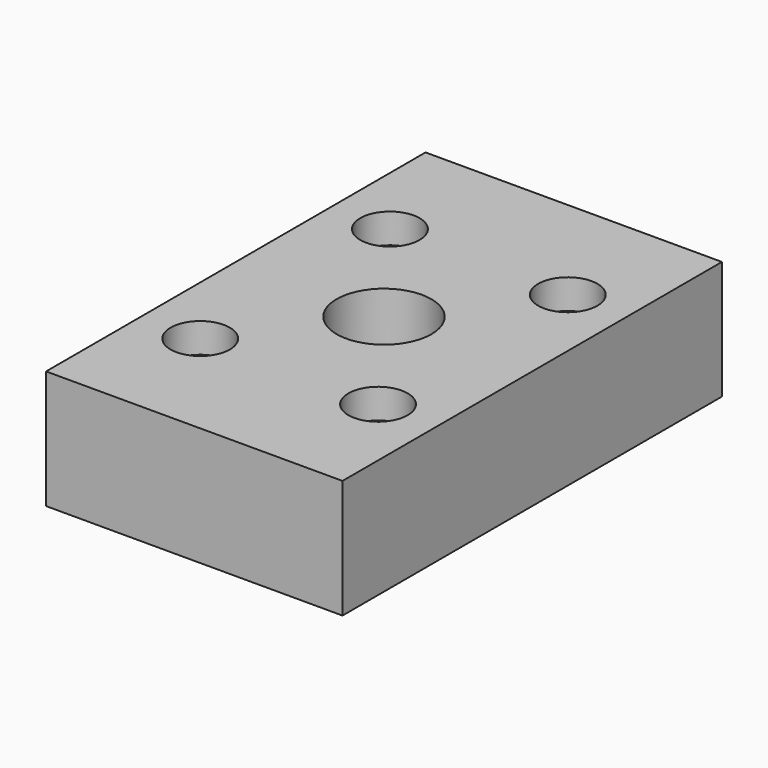
from build123d import *

# Parameters (mm, degrees)
F0_W     = 50
F0_H     = 80
F0_R     = 5
F0_R_2   = 8
F0_R_3   = 2.5
F1_DEPTH = 20
F2_START = 15
F2_DEPTH = 5


with BuildPart() as f1:
    # F0 (on Top) → F1 (new body)
    with BuildSketch(Plane.XY):
        Rectangle(F0_W, F0_H)
        with Locations((-15, -20)):
            Circle(F0_R, mode=Mode.SUBTRACT)
        with Locations((15, -20)):
            Circle(F0_R, mode=Mode.SUBTRACT)
        with Locations((-15, 20)):
            Circle(F0_R, mode=Mode.SUBTRACT)
        Circle(F0_R_2, mode=Mode.SUBTRACT)
        with Locations((15, 20)):
            Circle(F0_R, mode=Mode.SUBTRACT)
        with Locations((-15, 20)):
            Circle(F0_R)
        with Locations((-15, 20)):
            Circle(F0_R_3, mode=Mode.SUBTRACT)
        with Locations((15, 20)):
            Circle(F0_R)
        with Locations((15, 20)):
            Circle(F0_R_3, mode=Mode.SUBTRACT)
        with Locations((15, -20)):
            Circle(F0_R)
        with Locations((15, -20)):
            Circle(F0_R_3, mode=Mode.SUBTRACT)
        with Locations((-15, -20)):
            Circle(F0_R)
        with Locations((-15, -20)):
            Circle(F0_R_3, mode=Mode.SUBTRACT)
    extrude(amount=F1_DEPTH)

    # F0 (on Top) → F2 (cut)
    with BuildSketch(Plane.XY.offset(F2_START)):
        with Locations((-15, -20)):
            Circle(F0_R)
        with Locations((-15, -20)):
            Circle(F0_R_3, mode=Mode.SUBTRACT)
        with Locations((15, -20)):
            Circle(F0_R)
        with Locations((15, -20)):
            Circle(F0_R_3, mode=Mode.SUBTRACT)
        with Locations((-15, 20)):
            Circle(F0_R)
        with Locations((-15, 20)):
            Circle(F0_R_3, mode=Mode.SUBTRACT)
        with Locations((15, 20)):
            Circle(F0_R)
        with Locations((15, 20)):
            Circle(F0_R_3, mode=Mode.SUBTRACT)
    extrude(amount=F2_DEPTH, mode=Mode.SUBTRACT)


solid = f1.part
